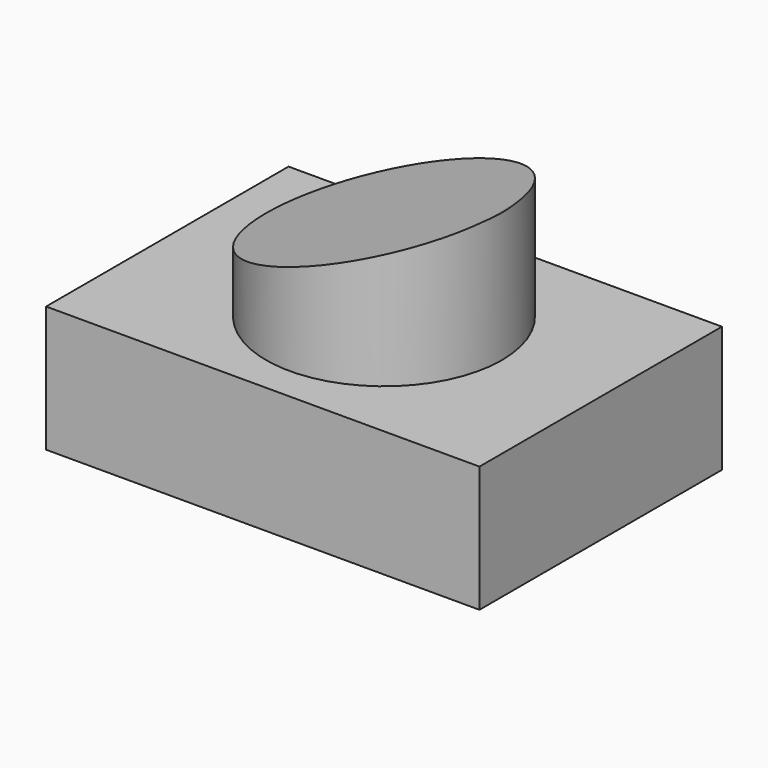
from build123d import *

# Parameters (mm, degrees)
F0_W     = 87.306462
F0_H     = 61.053478
F0_R     = 23.75796
F1_DEPTH = 25.4
F2_R     = 23.75796
F3_DEPTH = 26.162
F5_DEPTH = 61.053477


with BuildPart() as f1:
    # F0 (on Top) → F1 (new body)
    with BuildSketch(Plane.XY):
        Rectangle(F0_W, F0_H)
        Circle(F0_R, mode=Mode.SUBTRACT)
        Circle(F0_R)
    extrude(amount=F1_DEPTH)

    # F2 (on face) → F3 (join)
    with BuildSketch(Plane.XY.offset(25.4)):
        Circle(F2_R)
    extrude(amount=F3_DEPTH)

    # F4 (on face) → F5 (cut, through all)
    with BuildSketch(Plane(origin=(0, 30.526739, 0), x_dir=(-1, 0, 0), z_dir=(0, 1, 0))):
        Polygon((24.116119, 52.158147), (-25.276357, 52.158147), (24.116119, 35.900317), align=None)
    extrude(amount=-F5_DEPTH, mode=Mode.SUBTRACT)


solid = f1.part
